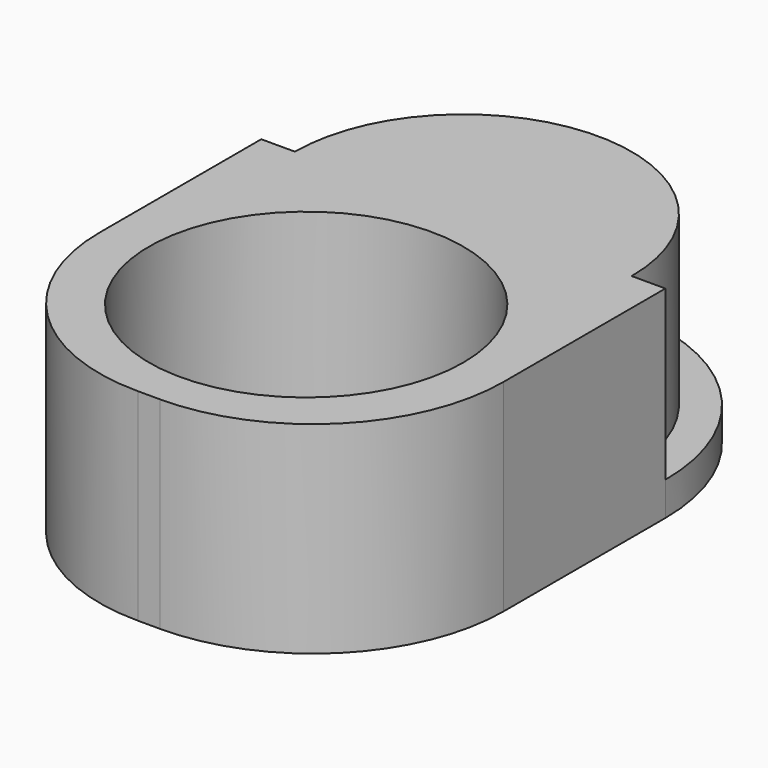
from build123d import *

# Parameters (mm, degrees)
F0_W     = 36
F0_H     = 35
F0_R     = 14
F1_DEPTH = 3
F2_R     = 14
F3_DEPTH = 15
F4_R     = 17


with BuildPart() as f1:
    # F0 (on Top) → F1 (new body)
    with BuildSketch(Plane.XY):
        with Locations((0, -17.5)):
            Rectangle(F0_W, F0_H)
        with Locations((0, -17.5)):
            Circle(F0_R, mode=Mode.SUBTRACT)
        with BuildLine():
            Line((-18, 0), (18, 0))
            ThreePointArc((18, 0), (0, 18), (-18, 0))
        make_face()
    extrude(amount=F1_DEPTH)

    # F2 (on face) → F3 (join)
    with BuildSketch(Plane.XY.offset(3)):
        with BuildLine():
            ThreePointArc((15, 0), (0, 15), (-15, 0))
            Line((-15, 0), (15, 0))
        make_face()
        Polygon((-15, 0), (-18, 0), (-18, -35), (18, -35), (18, 0), (15, 0), align=None)
        with Locations((0, -17.5)):
            Circle(F2_R, mode=Mode.SUBTRACT)
    extrude(amount=F3_DEPTH)

    # F4
    f4_edges = [f1.edges().sort_by_distance(p)[0] for p in [
        (-18, -35, 9),
        (18, -35, 9),
    ]]
    fillet(f4_edges, radius=F4_R)


solid = f1.part
